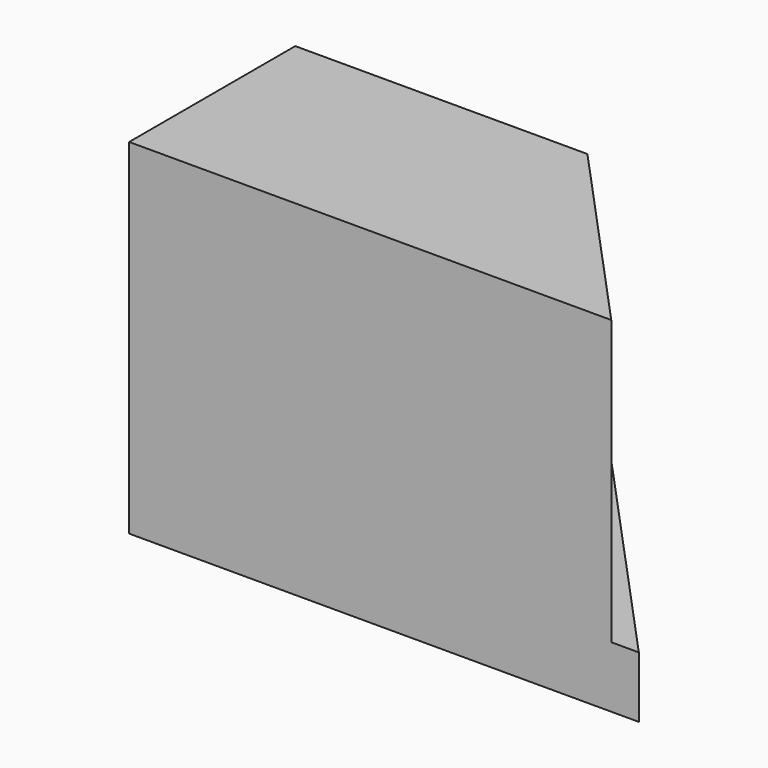
from build123d import *

# Parameters (mm, degrees)
F1_DEPTH = 180.34
F3_DEPTH = 32.004
F4_R     = 17.946652
F5_DEPTH = 340.36


with BuildPart() as f1:
    # F0 (on Top) → F1 (new body)
    with BuildSketch(Plane.XY):
        Polygon((76.498292, 35.97128), (-76.308474, 35.97128), (-76.308474, -72.606944), (76.498292, -72.606944), (175.83324, -72.606944), align=None)
    extrude(amount=-F1_DEPTH)

    # F2 (on face) → F3 (join)
    with BuildSketch(Plane(origin=(0, 0, -180.34), x_dir=(1, 0, 0), z_dir=(0, 0, -1))):
        Polygon((-76.308474, -51.736325), (76.498292, -51.736325), (190.256205, 72.606944), (175.83324, 72.606944), (76.498292, -35.97128), (-76.308474, -35.97128), align=None)
    extrude(amount=-F3_DEPTH)

    # F4 (on face) → F5 (cut)
    with BuildSketch(Plane(origin=(-76.308474, 0, 0), x_dir=(0, -1, 0), z_dir=(-1, 0, 0))):
        with Locations((17.826151, -88.319629)):
            Circle(F4_R)
    extrude(amount=-F5_DEPTH, mode=Mode.SUBTRACT)


solid = f1.part
